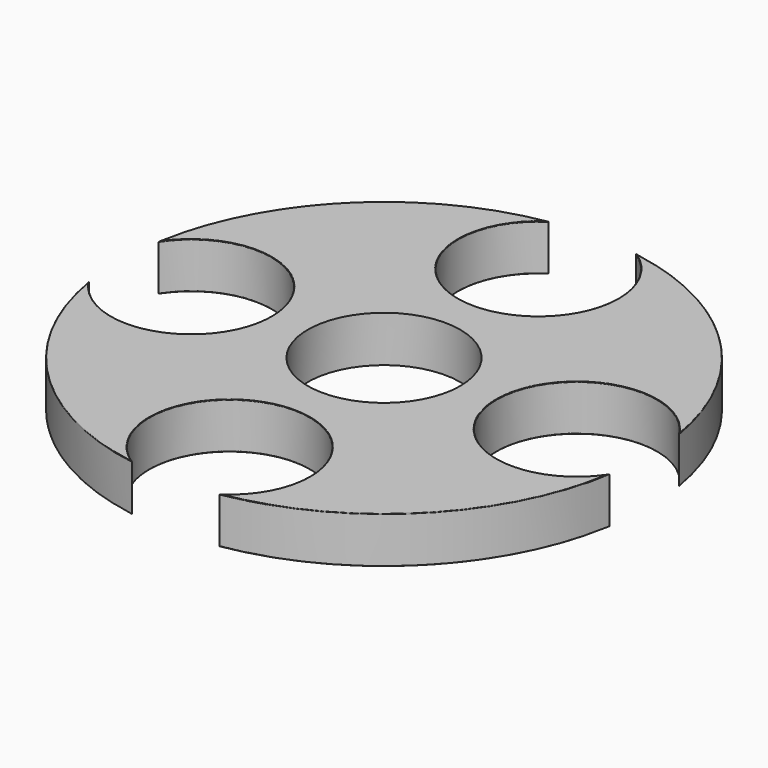
from build123d import *

# Parameters (mm, degrees)
F0_R     = 10.5
F1_DEPTH = 6.35
F2_R     = 0.0508


with BuildPart() as f1:
    # F0 (on Top) → F1 (new body)
    with BuildSketch(Plane.XY):
        with BuildLine():
            ThreePointArc((-35.850693, 5.992529), (-15.4911, 0), (-35.850693, -5.992529))
            ThreePointArc((-35.850693, -5.992529), (-25.708936, -25.695003), (-6.011962, -35.847439))
            ThreePointArc((-6.011962, -35.847439), (0, -15.50641), (6.011962, -35.847439))
            ThreePointArc((6.011962, -35.847439), (25.708936, -25.695003), (35.850693, -5.992529))
            ThreePointArc((35.850693, -5.992529), (15.4911, 0), (35.850693, 5.992529))
            ThreePointArc((35.850693, 5.992529), (25.708936, 25.695003), (6.011962, 35.847439))
            ThreePointArc((6.011962, 35.847439), (0, 15.50641), (-6.011962, 35.847439))
            ThreePointArc((-6.011962, 35.847439), (-25.708936, 25.695003), (-35.850693, 5.992529))
        make_face()
        Circle(F0_R, mode=Mode.SUBTRACT)
    extrude(amount=F1_DEPTH)

    # F2
    f2_edges = [f1.edges().sort_by_distance(p)[0] for p in [
        (-25.708936, 25.695003, 0),
        (25.708936, 25.695003, 0),
        (25.708936, -25.695003, 0),
        (0, -15.50641, 0),
        (15.4911, 0, 0),
        (0, 15.50641, 0),
        (-15.4911, 0, 0),
        (-25.708936, -25.695003, 0),
        (-25.708936, -25.695003, 6.35),
        (-25.708936, 25.695003, 6.35),
        (25.708936, 25.695003, 6.35),
        (15.4911, 0, 6.35),
        (0, 15.50641, 6.35),
        (-15.4911, 0, 6.35),
        (0, -15.50641, 6.35),
        (25.708936, -25.695003, 6.35),
    ]]
    fillet(f2_edges, radius=F2_R)


solid = f1.part
